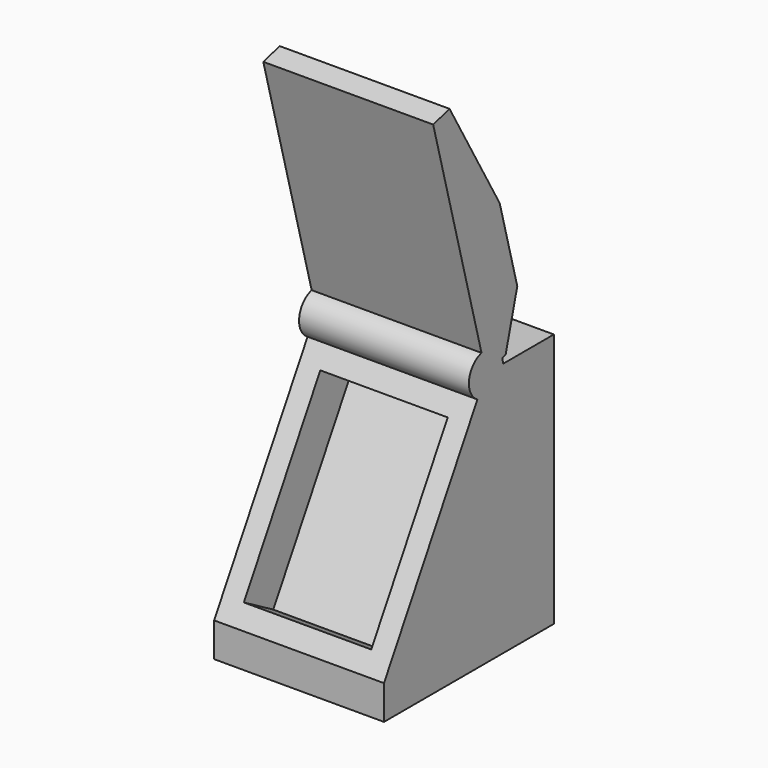
from build123d import *

# Parameters (mm, degrees)
F1_DEPTH = 2.54
F3_DEPTH = 2.54
F5_DEPTH = 1.905


with BuildPart() as f1:
    # F0 (on Right) → F1 (new body, symmetric)
    with BuildSketch(Plane.YZ):
        Polygon((-6.35, 1.020886), (-6.35, 0), (0, 0), (0, 7.62), (-2.54, 7.62), align=None)
    extrude(amount=F1_DEPTH, both=True)

    # F2 (on Right) → F3 (join, symmetric)
    with BuildSketch(Plane.YZ):
        with BuildLine():
            Line((-4.512201, 14.980355), (-2.70435, 8.233363))
            ThreePointArc((-2.70435, 8.233363), (-2.8575, 7.070074), (-1.926637, 7.78435))
            Line((-1.926637, 7.78435), (-1.803965, 7.81722))
            Line((-1.803965, 7.81722), (-1.367615, 9.445697))
            Line((-1.367615, 9.445697), (-2.025016, 11.899149))
            Line((-2.025016, 11.899149), (-3.898838, 15.144705))
            Line((-3.898838, 15.144705), (-4.512201, 14.980355))
        make_face()
    extrude(amount=F3_DEPTH, both=True)

    # F4 (on Right) → F5 (cut, symmetric)
    with BuildSketch(Plane.YZ):
        Polygon((-3.734312, 6.843067), (-6.591812, 1.893732), (-4.932648, 0.935813), (-2.075148, 5.885148), align=None)
    extrude(amount=F5_DEPTH, both=True, mode=Mode.SUBTRACT)


solid = f1.part
